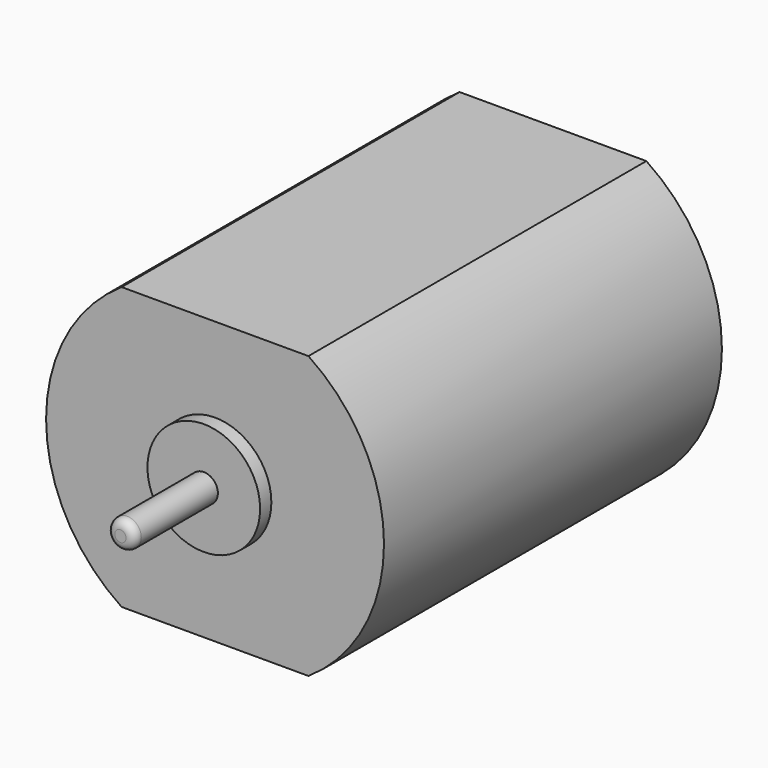
from build123d import *

# Parameters (mm, degrees)
F0_R          = 0.5
F0_R_2        = 2
F1_DEPTH      = 15
F2_DEPTH      = 0.5
F2_DEPTH_BACK = 16
F3_DEPTH      = 4.2
F3_DEPTH_BACK = 16.5
F4_R          = 0.3


with BuildPart() as f1:
    # F0 (on Front) → F1 (new body)
    with BuildSketch(Plane.XZ):
        Circle(F0_R)
        Circle(F0_R_2)
        Circle(F0_R, mode=Mode.SUBTRACT)
        with BuildLine():
            Line((-3.316625, -5), (3.316625, -5))
            ThreePointArc((3.316625, -5), (6, 0), (3.316625, 5))
            Line((3.316625, 5), (-3.316625, 5))
            ThreePointArc((-3.316625, 5), (-6, 0), (-3.316625, -5))
        make_face()
        Circle(F0_R_2, mode=Mode.SUBTRACT)
    extrude(amount=-F1_DEPTH)

    # F0 (on Front) → F2 (join, two sides)
    with BuildSketch(Plane.XZ) as f2_sk:
        Circle(F0_R)
        Circle(F0_R_2)
        Circle(F0_R, mode=Mode.SUBTRACT)
    extrude(amount=F2_DEPTH)
    extrude(f2_sk.sketch, amount=-F2_DEPTH_BACK)

    # F0 (on Front) → F3 (join, two sides)
    with BuildSketch(Plane.XZ) as f3_sk:
        Circle(F0_R)
    extrude(amount=F3_DEPTH)
    extrude(f3_sk.sketch, amount=-F3_DEPTH_BACK)

    # F4
    f4_edges = [f1.edges().sort_by_distance(p)[0] for p in [
        (-0.5, -4.2, 0),
        (-0.5, 16.5, 0),
    ]]
    fillet(f4_edges, radius=F4_R)


solid = f1.part
